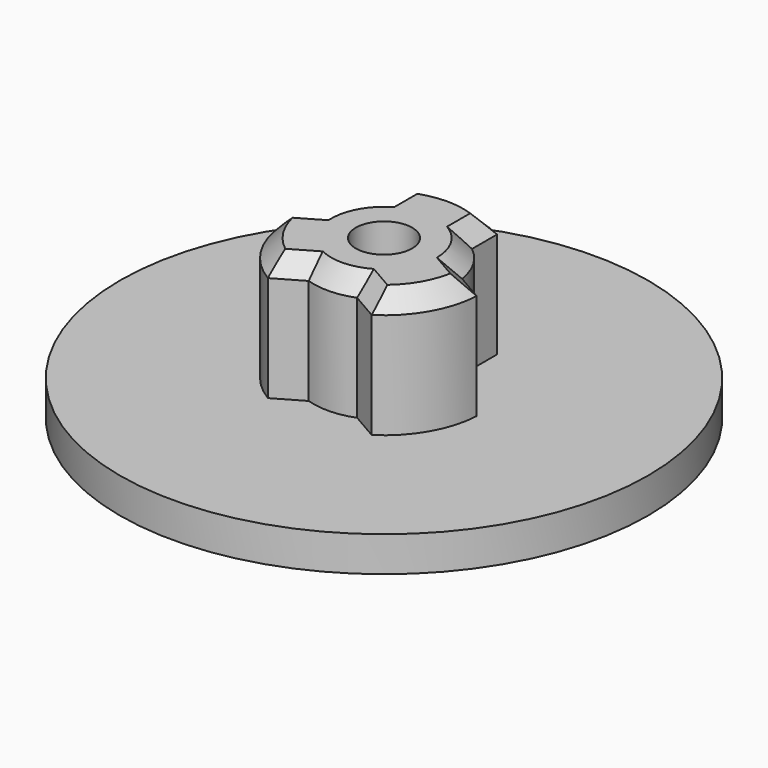
from build123d import *

# Parameters (mm, degrees)
SKETCH_R      = 1.6
PAD_DEPTH     = 7
SKETCH001_R   = 15
SKETCH001_R_2 = 1.6
PAD001_DEPTH  = 2
CHAMFER_SIZE  = 1


with BuildPart() as part:
    # Sketch → Pad (new body)
    with BuildSketch(Plane.XY):
        with BuildLine():
            ThreePointArc((-2.5, 3.122499), (-3.518971, 1.901799), (-3.981855, 0.380567))
            Line((-5.478695, -0.483634), (-3.981855, 0.380567))
            ThreePointArc((-5.478695, -0.483634), (-4.659167, -2.922699), (-2.81991, -4.722087))
            Line((-1.232265, -3.80546), (-2.81991, -4.722087))
            ThreePointArc((-1.232265, -3.80546), (0.117848, -3.998264), (1.454262, -3.726275))
            Line((2.992718, -4.614503), (1.454262, -3.726275))
            ThreePointArc((2.992718, -4.614503), (4.763149, -2.749985), (5.492638, -0.284484))
            Line((3.954108, 0.604177), (5.492638, -0.284484))
            ThreePointArc((3.954108, 0.604177), (3.46401, 2.000159), (2.5, 3.122499))
            Line((2.5, 3.122499), (2.5, 4.898979))
            ThreePointArc((2.5, 4.898979), (0, 5.5), (-2.5, 4.898979))
            Line((-2.5, 3.122499), (-2.5, 4.898979))
        make_face()
        Circle(SKETCH_R, mode=Mode.SUBTRACT)
    extrude(amount=PAD_DEPTH)

    # Sketch001 (on Face14 of Pad) → Pad001 (join)
    with BuildSketch(Plane(origin=(0, 0, 0), x_dir=(1, 0, 0), z_dir=(0, 0, -1))):
        Circle(SKETCH001_R)
        Circle(SKETCH001_R_2, mode=Mode.SUBTRACT)
    extrude(amount=PAD001_DEPTH)

    # Chamfer
    chamfer_edges = [part.edges().sort_by_distance(p)[0] for p in [
        (-2.026088, -4.263773, 7),
        (0.117848, -3.998264, 7),
        (2.22349, -4.170389, 7),
        (4.763149, -2.749985, 7),
        (3.46401, 2.000159, 7),
        (4.723373, 0.159847, 7),
        (2.5, 4.010739, 7),
        (0, 5.5, 7),
        (-2.5, 4.010739, 7),
        (-3.518971, 1.901799, 7),
        (-4.730275, -0.051534, 7),
        (-4.659167, -2.922699, 7),
    ]]
    chamfer(chamfer_edges, length=CHAMFER_SIZE)


solid = part.part
